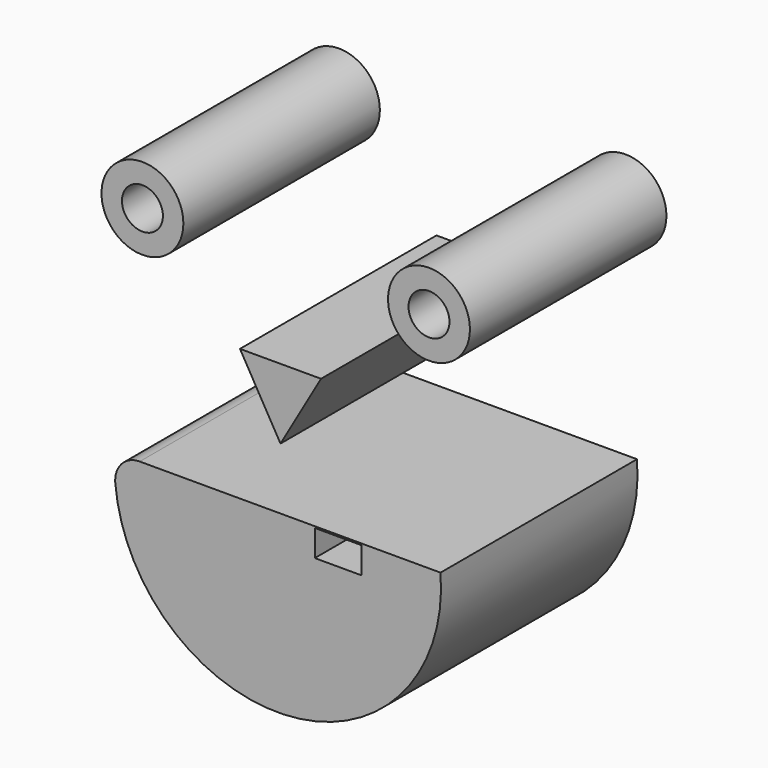
from build123d import *

# Parameters (mm, degrees)
F1_DEPTH = 76.2
F0_R     = 12.7
F0_R_2   = 6.35
F0_W     = 14.0311091589
F0_H     = 0.483832124
F0_W_2   = 14.0311132381
F0_H_2   = 7.7413058248


with BuildPart() as f1:
    # F0 (on Front) → F1 (new body)
    with BuildSketch(Plane.XZ):
        Polygon((0.0046560519, -14.5229986625), (12.5749577549, 7.2655315905), (-12.5796138068, 7.2574670721), align=None)
    extrude(amount=F1_DEPTH)


with BuildPart() as f1b:
    # F0 (on Front) → F1, piece 2 (new body)
    with BuildSketch(Plane.XZ):
        with Locations((-42.8316236274, 35.7832270636)):
            Circle(F0_R)
        with Locations((-42.8316236274, 35.7832270636)):
            Circle(F0_R_2, mode=Mode.SUBTRACT)
    extrude(amount=F1_DEPTH)


with BuildPart() as f1c:
    # F0 (on Front) → F1, piece 3 (new body)
    with BuildSketch(Plane.XZ):
        with Locations((46.0683763726, 35.7832270636)):
            Circle(F0_R)
        with Locations((46.0683763726, 35.7832270636)):
            Circle(F0_R_2, mode=Mode.SUBTRACT)
    extrude(amount=F1_DEPTH)


with BuildPart() as f1d:
    # F0 (on Front) → F1, piece 4 (new body)
    with BuildSketch(Plane.XZ):
        with BuildLine():
            Line((-33.868199726, -33.626283664), (-43.6661317129, -33.626283664))
            ThreePointArc((-43.6661317129, -33.626283664), (-49.0542853856, -35.8581299914), (-51.2861317129, -41.246283664))
            ThreePointArc((-51.2861317129, -41.246283664), (-51.2858903043, -41.306938498), (-51.2851660938, -41.3675894888))
            Line((-51.2851660938, -41.3675894888), (-33.868199726, -41.3675894888))
            Line((-33.868199726, -41.3675894888), (-33.868199726, -33.626283664))
        make_face()
        with Locations((17.659853148, -33.868199726)):
            Rectangle(F0_W, F0_H)
        with BuildLine():
            Line((-33.868199726, -33.626283664), (-43.6661317129, -33.626283664))
            ThreePointArc((-43.6661317129, -33.626283664), (-49.0542853856, -35.8581299914), (-51.2861317129, -41.246283664))
            ThreePointArc((-51.2861317129, -41.246283664), (-51.2858903043, -41.306938498), (-51.2851660938, -41.3675894888))
            Line((-51.2851660938, -41.3675894888), (-33.868199726, -41.3675894888))
            Line((-33.868199726, -41.3675894888), (-33.868199726, -33.626283664))
        make_face()
        with Locations((-26.8526431069, -37.4969365764)):
            Rectangle(F0_W_2, F0_H_2)
        Polygon((-4.3544824868, -33.626283664), (-19.8370864879, -33.626283664), (-19.8370864879, -41.3675894888), (-19.8370864879, -41.8514175335), (-4.3544824868, -41.8514175335), align=None)
        Polygon((36.7711924697, -33.626283664), (24.6754077274, -33.626283664), (24.6754077274, -34.110115788), (25.1592398514, -34.110115788), (25.1592398514, -41.8514175335), (36.7711924697, -41.8514175335), align=None)
        Polygon((10.6442985686, -33.626283664), (-4.3544824868, -33.626283664), (-4.3544824868, -41.8514175335), (10.6442985686, -41.8514175335), (10.6442985686, -34.110115788), align=None)
        with BuildLine():
            Line((-19.8370864879, -41.3675894888), (-33.868199726, -41.3675894888))
            Line((-33.868199726, -41.3675894888), (-51.2851660938, -41.3675894888))
            ThreePointArc((-51.2851660938, -41.3675894888), (-51.2764150356, -41.6309754224), (-51.2585615924, -41.8939012401))
            ThreePointArc((-51.2585615924, -41.8939012401), (3.3108353665, -88.0414891688), (49.6401389008, -33.626283664))
            Line((49.6401389008, -33.626283664), (36.7711924697, -33.626283664))
            Line((36.7711924697, -33.626283664), (36.7711924697, -41.8514175335))
            Line((36.7711924697, -41.8514175335), (25.1592398514, -41.8514175335))
            Line((25.1592398514, -41.8514175335), (25.1592398514, -42.3352496575))
            Line((25.1592398514, -42.3352496575), (10.6442985686, -42.3352496575))
            Line((10.6442985686, -42.3352496575), (10.6442985686, -41.8514175335))
            Line((10.6442985686, -41.8514175335), (-4.3544824868, -41.8514175335))
            Line((-4.3544824868, -41.8514175335), (-19.8370864879, -41.8514175335))
            Line((-19.8370864879, -41.8514175335), (-19.8370864879, -41.3675894888))
        make_face()
    extrude(amount=F1_DEPTH)


solid = Compound([f1.part, f1b.part, f1c.part, f1d.part])
